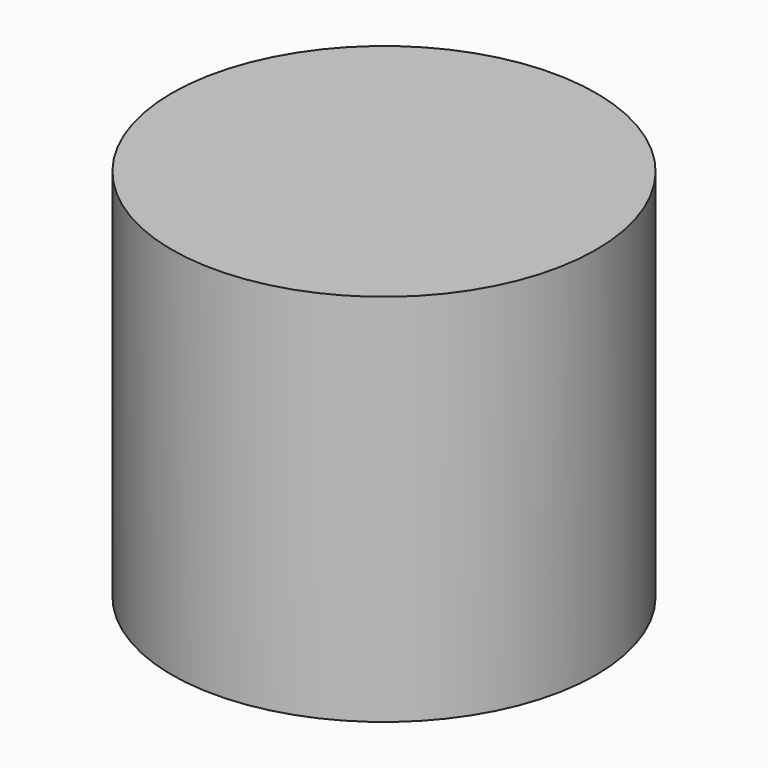
from build123d import *

# Parameters (mm, degrees)
F0_R     = 8.5
F1_DEPTH = 3
F2_R     = 8.5
F2_R_2   = 7
F3_DEPTH = 12


with BuildPart() as f1:
    # F0 (on Top) → F1 (new body)
    with BuildSketch(Plane.XY):
        Circle(F0_R)
    extrude(amount=F1_DEPTH)

    # F2 (on face) → F3 (join)
    with BuildSketch(Plane(origin=(0, 0, 0), x_dir=(1, 0, 0), z_dir=(0, 0, -1))):
        Circle(F2_R)
        Circle(F2_R_2, mode=Mode.SUBTRACT)
    extrude(amount=F3_DEPTH)


solid = f1.part
